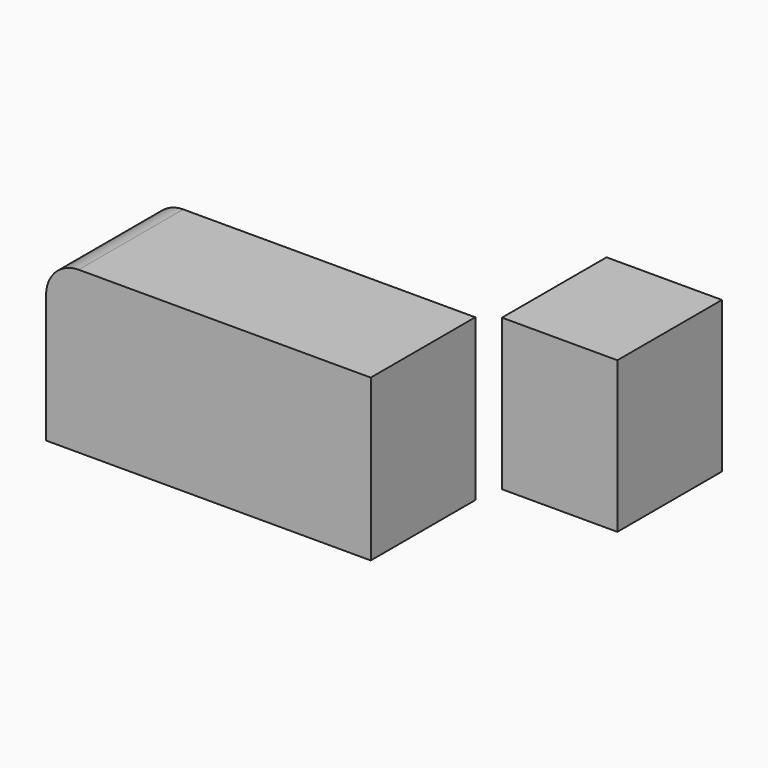
from build123d import *

# Parameters (mm, degrees)
F0_W     = 22.430179
F0_H     = 29.366997
F1_DEPTH = 25.4


with BuildPart() as f1:
    # F0 (on Front) → F1 (new body)
    with BuildSketch(Plane.XZ):
        with BuildLine():
            Line((31.553846, -15.647309), (31.553846, 15.647309))
            Line((31.553846, 15.647309), (-25.203846, 15.647309))
            ThreePointArc((-25.203846, 15.647309), (-29.693974, 13.787437), (-31.553846, 9.297309))
            Line((-31.553846, 9.297309), (-31.553846, -15.647309))
            Line((-31.553846, -15.647309), (31.553846, -15.647309))
        make_face()
        with Locations((68.276982, 19.519849)):
            Rectangle(F0_W, F0_H)
    extrude(amount=F1_DEPTH)


solid = f1.part
